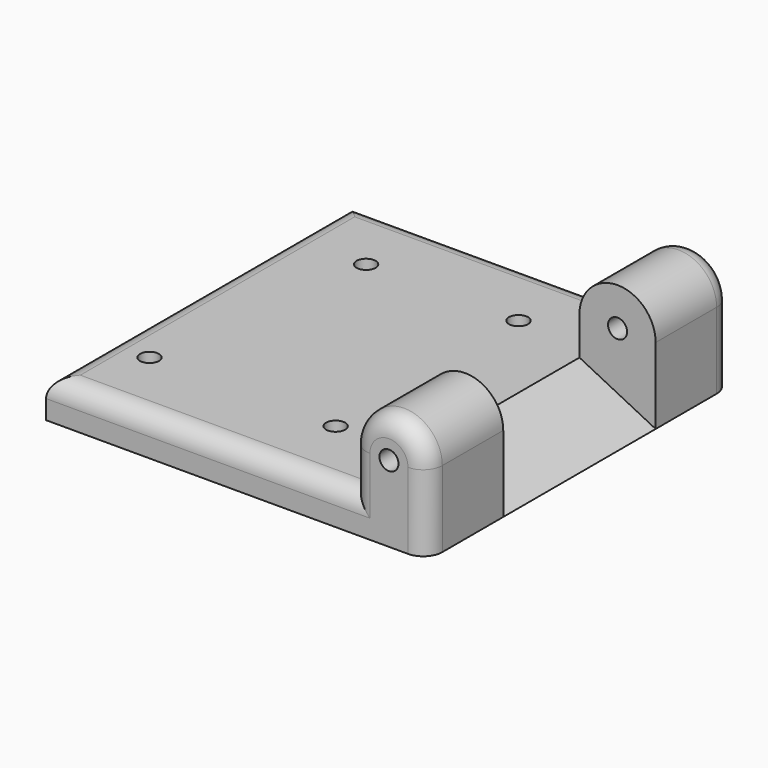
from build123d import *

# Parameters (mm, degrees)
F1_DEPTH = 10
F3_D     = 0.5
F5_D     = 0.5
F8_DEPTH = 5
F9_R     = 0.5
F10_R    = 0.5
F11_R    = 0.5


with BuildPart() as f1:
    # F0 (on Front) → F1 (new body)
    with BuildSketch(Plane.XZ):
        Polygon((-10, 0), (0, 0), (0, 1), (-1, 1), (-2, 1), (-10, 1), align=None)
        with BuildLine():
            Line((-1, 1), (0, 1))
            Line((0, 1), (0, 2))
            ThreePointArc((0, 2), (-0.2928932188, 1.2928932188), (-1, 1))
        make_face()
        with BuildLine():
            Line((-2, 1), (-1, 1))
            ThreePointArc((-1, 1), (-1.7071067812, 1.2928932188), (-2, 2))
            Line((-2, 2), (-2, 1))
        make_face()
        with BuildLine():
            ThreePointArc((-2, 2), (-1.7071067812, 1.2928932188), (-1, 1))
            ThreePointArc((-1, 1), (-0.2928932188, 1.2928932188), (0, 2))
            ThreePointArc((0, 2), (-1, 3), (-2, 2))
        make_face()
    extrude(amount=F1_DEPTH)

    # F3 (through all)
    with Locations(Plane.XY.offset(1)):
        with Locations((-8, -2), (-8.8854947245, -8), (-4, -8), (-4, -2)):
            Hole(F3_D / 2)

    # F5 (through all)
    with Locations(Plane.XZ.offset(10)):
        with Locations((-1, 2)):
            Hole(F5_D / 2)

    # F7 (on offset) → F8 (cut)
    with BuildSketch(Plane.XZ.offset(7.5)):
        with BuildLine():
            ThreePointArc((-2, 2), (-1, 1), (0, 2))
            ThreePointArc((0, 2), (-1, 3), (-2, 2))
        make_face()
        with BuildLine():
            Line((0, 0), (0, 2))
            ThreePointArc((0, 2), (-1, 1), (-2, 2))
            Line((-2, 2), (-2, 1))
            Line((-2, 1), (0, 0))
        make_face()
    extrude(amount=-F8_DEPTH, mode=Mode.SUBTRACT)

    # F9
    f9_edges = [f1.edges().sort_by_distance(p)[0] for p in [
        (-10, -5, 1),
        (-6, -10, 1),
        (-6, 0, 1),
    ]]
    fillet(f9_edges, radius=F9_R)

    # F10
    f10_edges = [f1.edges().sort_by_distance(p)[0] for p in [
        (0, -10, 1),
        (-1, -10, 3),
        (-2, -10, 1.5),
    ]]
    fillet(f10_edges, radius=F10_R)

    # F11
    f11_edges = [f1.edges().sort_by_distance(p)[0] for p in [
        (-2, 0, 1.5),
        (0, 0, 1),
        (-1, 0, 3),
    ]]
    fillet(f11_edges, radius=F11_R)


solid = f1.part
